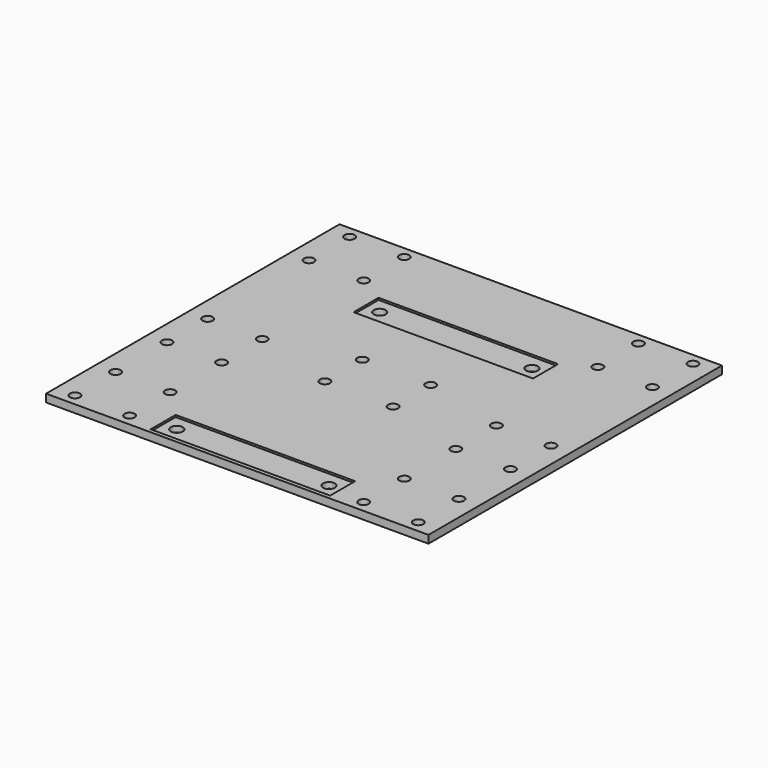
from build123d import *

# Parameters (mm, degrees)
F0_W     = 196
F0_H     = 188
F0_R     = 2.6
F0_W_2   = 92
F0_H_2   = 16
F1_DEPTH = 4
F0_R_2   = 3.05
F2_DEPTH = 3


with BuildPart() as f1:
    # F0 (on Top) → F1 (new body)
    with BuildSketch(Plane.XY):
        with Locations((98, 94)):
            Rectangle(F0_W, F0_H)
        with Locations((10, 6)):
            Circle(F0_R, mode=Mode.SUBTRACT)
        with Locations((38, 6)):
            Circle(F0_R, mode=Mode.SUBTRACT)
        with Locations((10, 32)):
            Circle(F0_R, mode=Mode.SUBTRACT)
        with Locations((38, 32)):
            Circle(F0_R, mode=Mode.SUBTRACT)
        with Locations((98, 10)):
            Rectangle(F0_W_2, F0_H_2, mode=Mode.SUBTRACT)
        with Locations((10, 65)):
            Circle(F0_R, mode=Mode.SUBTRACT)
        with Locations((38, 65)):
            Circle(F0_R, mode=Mode.SUBTRACT)
        with Locations((10, 91)):
            Circle(F0_R, mode=Mode.SUBTRACT)
        with Locations((38, 91)):
            Circle(F0_R, mode=Mode.SUBTRACT)
        with Locations((80.5, 78)):
            Circle(F0_R, mode=Mode.SUBTRACT)
        with Locations((158, 6)):
            Circle(F0_R, mode=Mode.SUBTRACT)
        with Locations((186, 6)):
            Circle(F0_R, mode=Mode.SUBTRACT)
        with Locations((158, 32)):
            Circle(F0_R, mode=Mode.SUBTRACT)
        with Locations((186, 32)):
            Circle(F0_R, mode=Mode.SUBTRACT)
        with Locations((115.5, 78)):
            Circle(F0_R, mode=Mode.SUBTRACT)
        with Locations((158, 65)):
            Circle(F0_R, mode=Mode.SUBTRACT)
        with Locations((186, 65)):
            Circle(F0_R, mode=Mode.SUBTRACT)
        with Locations((158, 91)):
            Circle(F0_R, mode=Mode.SUBTRACT)
        with Locations((186, 91)):
            Circle(F0_R, mode=Mode.SUBTRACT)
        with Locations((80.5, 102)):
            Circle(F0_R, mode=Mode.SUBTRACT)
        with Locations((98, 140)):
            Rectangle(F0_W_2, F0_H_2, mode=Mode.SUBTRACT)
        with Locations((10, 156)):
            Circle(F0_R, mode=Mode.SUBTRACT)
        with Locations((38, 156)):
            Circle(F0_R, mode=Mode.SUBTRACT)
        with Locations((10, 182)):
            Circle(F0_R, mode=Mode.SUBTRACT)
        with Locations((38, 182)):
            Circle(F0_R, mode=Mode.SUBTRACT)
        with Locations((115.5, 102)):
            Circle(F0_R, mode=Mode.SUBTRACT)
        with Locations((158, 156)):
            Circle(F0_R, mode=Mode.SUBTRACT)
        with Locations((186, 156)):
            Circle(F0_R, mode=Mode.SUBTRACT)
        with Locations((158, 182)):
            Circle(F0_R, mode=Mode.SUBTRACT)
        with Locations((186, 182)):
            Circle(F0_R, mode=Mode.SUBTRACT)
    extrude(amount=F1_DEPTH)

    # F0 (on Top) → F2 (join)
    with BuildSketch(Plane.XY):
        with Locations((98, 140)):
            Rectangle(F0_W_2, F0_H_2)
        with Locations((59, 140)):
            Circle(F0_R_2, mode=Mode.SUBTRACT)
        with Locations((137, 140)):
            Circle(F0_R_2, mode=Mode.SUBTRACT)
        with Locations((98, 10)):
            Rectangle(F0_W_2, F0_H_2)
        with Locations((59, 10)):
            Circle(F0_R_2, mode=Mode.SUBTRACT)
        with Locations((137, 10)):
            Circle(F0_R_2, mode=Mode.SUBTRACT)
    extrude(amount=F2_DEPTH)


solid = f1.part
